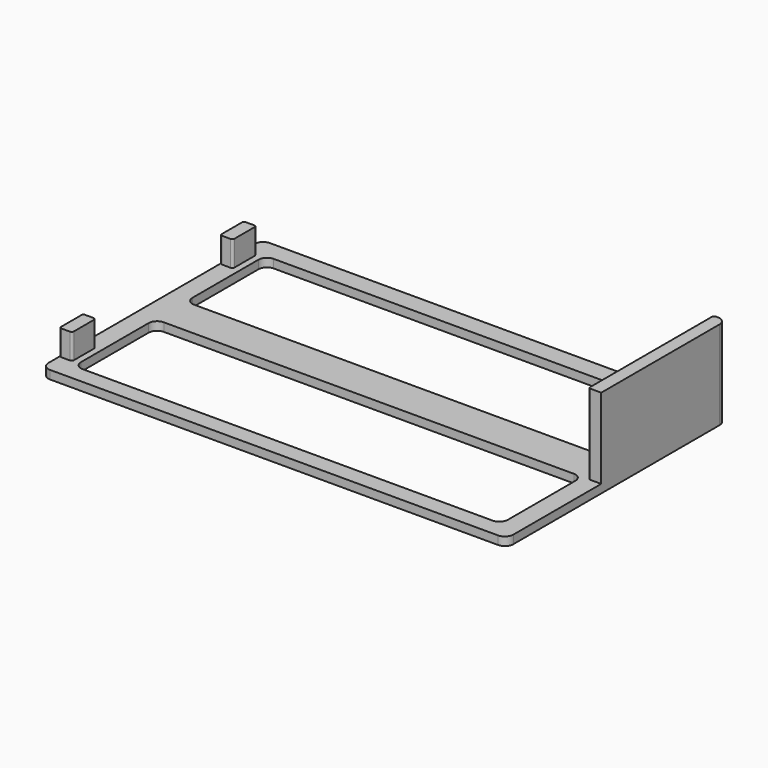
from build123d import *

# Parameters (mm, degrees)
PAD_DEPTH       = 4
PAD001_DEPTH    = 38
PAD002_DEPTH    = 12
SKETCH009_R     = 1.4
POCKET001_DEPTH = 8


with BuildPart() as part:
    # Sketch → Pad (new body)
    with BuildSketch(Plane.XY):
        with BuildLine():
            Line((-106, 65), (106, 65))
            ThreePointArc((110, 61), (108.828427, 63.828427), (106, 65))
            Line((110, 61), (110, -61))
            ThreePointArc((106, -65), (108.828427, -63.828427), (110, -61))
            Line((106, -65), (-106, -65))
            ThreePointArc((-110, -61), (-108.828427, -63.828427), (-106, -65))
            Line((-110, -61), (-110, 61))
            ThreePointArc((-106, 65), (-108.828427, 63.828427), (-110, 61))
        make_face()
        with BuildLine():
            ThreePointArc((-97, -9), (-99.828427, -10.171573), (-101, -13))
            Line((-101, -53), (-101, -13))
            ThreePointArc((-101, -53), (-99.828427, -55.828427), (-97, -57))
            Line((97, -57), (-97, -57))
            ThreePointArc((97, -57), (99.828427, -55.828427), (101, -53))
            Line((101, -13), (101, -53))
            ThreePointArc((101, -13), (99.828427, -10.171573), (97, -9))
            Line((-97, -9), (97, -9))
        make_face(mode=Mode.SUBTRACT)
        with BuildLine():
            ThreePointArc((-97, 56), (-99.828427, 54.828427), (-101, 52))
            Line((-101, 13), (-101, 52))
            ThreePointArc((-101, 13), (-99.828427, 10.171573), (-97, 9))
            Line((97, 9), (-97, 9))
            ThreePointArc((97, 9), (99.828427, 10.171573), (101, 13))
            Line((101, 52), (101, 13))
            ThreePointArc((101, 52), (99.828427, 54.828427), (97, 56))
            Line((-97, 56), (97, 56))
        make_face(mode=Mode.SUBTRACT)
    extrude(amount=PAD_DEPTH)

    # Sketch006 (on Face26 of Pad) → Pad001 (join)
    with BuildSketch(Plane.XY.offset(4)):
        with BuildLine():
            ThreePointArc((105, 65), (104.292893, 64.707107), (104, 64))
            Line((104, -8), (104, 64))
            ThreePointArc((104, -8), (104.292893, -8.707107), (105, -9))
            Line((110, -9), (105, -9))
            Line((110, 61), (110, -9))
            ThreePointArc((110, 61), (108.828427, 63.828427), (106, 65))
            Line((105, 65), (106, 65))
        make_face()
    extrude(amount=PAD001_DEPTH)

    # Sketch008 → Pad002 (join)
    with BuildSketch(Plane.XY.offset(4)):
        with BuildLine():
            ThreePointArc((-109, 54.5), (-109.707107, 54.207107), (-110, 53.5))
            Line((-110, 41.5), (-110, 53.5))
            ThreePointArc((-110, 41.5), (-109.707107, 40.792893), (-109, 40.5))
            Line((-105, 40.5), (-109, 40.5))
            ThreePointArc((-105, 40.5), (-104.292893, 40.792893), (-104, 41.5))
            Line((-104, 53.5), (-104, 41.5))
            ThreePointArc((-104, 53.5), (-104.292893, 54.207107), (-105, 54.5))
            Line((-109, 54.5), (-105, 54.5))
        make_face()
        with BuildLine():
            ThreePointArc((-109, -40.5), (-109.707107, -40.792893), (-110, -41.5))
            Line((-110, -53.5), (-110, -41.5))
            ThreePointArc((-110, -53.5), (-109.707107, -54.207107), (-109, -54.5))
            Line((-105, -54.5), (-109, -54.5))
            ThreePointArc((-105, -54.5), (-104.292893, -54.207107), (-104, -53.5))
            Line((-104, -41.5), (-104, -53.5))
            ThreePointArc((-104, -41.5), (-104.292893, -40.792893), (-105, -40.5))
            Line((-109, -40.5), (-105, -40.5))
        make_face()
    extrude(amount=PAD002_DEPTH)

    # Sketch009 (on Face7 of Pad002) → Pocket001 (cut)
    with BuildSketch(Plane(origin=(-110, 0, 0), x_dir=(0, -1, 0), z_dir=(-1, 0, 0))):
        with Locations((2, 9)):
            Circle(SKETCH009_R)
        with Locations((97, 9)):
            Circle(SKETCH009_R)
    extrude(amount=-POCKET001_DEPTH, mode=Mode.SUBTRACT)


solid = part.part
